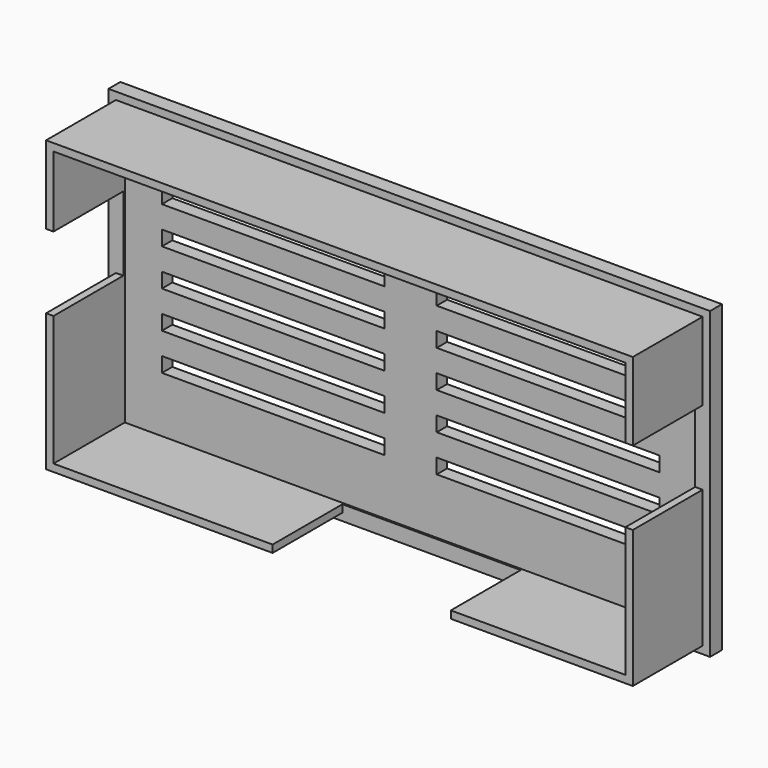
from build123d import *

# Parameters (mm, degrees)
SKETCH011_W     = 81
SKETCH011_H     = 41
PAD002_DEPTH    = 2
SKETCH012_W     = 79
SKETCH012_H     = 39
PAD003_DEPTH    = 12
SKETCH059_W     = 77
SKETCH059_H     = 37
POCKET022_DEPTH = 12
SKETCH060_W     = 30
SKETCH060_H     = 2
POCKET023_DEPTH = 2
SKETCH061_W     = 24
SKETCH061_H     = 11.75
POCKET024_DEPTH = 2
SKETCH103_W     = 10
SKETCH103_H     = 11.75
POCKET038_DEPTH = 2
SKETCH104_W     = 10
SKETCH104_H     = 11.75
POCKET039_DEPTH = 2


with BuildPart() as part:
    # Sketch011 (on DatumPlane) → Pad002 (new body)
    with BuildSketch(Plane(origin=(0, 0, 0), x_dir=(1, 0, 0), z_dir=(0, 1, 0))):
        Rectangle(SKETCH011_W, SKETCH011_H)
    extrude(amount=-PAD002_DEPTH)

    # Sketch012 → Pad003 (join)
    with BuildSketch(Plane.XZ.offset(1.75)):
        Rectangle(SKETCH012_W, SKETCH012_H)
    extrude(amount=PAD003_DEPTH)

    # Sketch059 (on Face11 of Pad003) → Pocket022 (cut)
    with BuildSketch(Plane.XZ.offset(13.75)):
        Rectangle(SKETCH059_W, SKETCH059_H)
    extrude(amount=-POCKET022_DEPTH, mode=Mode.SUBTRACT)

    # Sketch060 (on Face4 of Pocket022) → Pocket023 (cut)
    with BuildSketch(Plane(origin=(0, 0, 0), x_dir=(1, 0, 0), z_dir=(0, 1, 0))):
        with Locations((18.5, -10)):
            Rectangle(SKETCH060_W, SKETCH060_H)
        with Locations((18.5, -5)):
            Rectangle(SKETCH060_W, SKETCH060_H)
        with Locations((18.5, 0)):
            Rectangle(SKETCH060_W, SKETCH060_H)
        with Locations((18.5, 5)):
            Rectangle(SKETCH060_W, SKETCH060_H)
        with Locations((18.5, 10)):
            Rectangle(SKETCH060_W, SKETCH060_H)
        with Locations((-18.5, -10)):
            Rectangle(SKETCH060_W, SKETCH060_H)
        with Locations((-18.5, -5)):
            Rectangle(SKETCH060_W, SKETCH060_H)
        with Locations((-18.5, 0)):
            Rectangle(SKETCH060_W, SKETCH060_H)
        with Locations((-18.5, 5)):
            Rectangle(SKETCH060_W, SKETCH060_H)
        with Locations((-18.5, 10)):
            Rectangle(SKETCH060_W, SKETCH060_H)
    extrude(amount=-POCKET023_DEPTH, mode=Mode.SUBTRACT)

    # Sketch061 (on Face50 of Pocket023) → Pocket024 (cut)
    with BuildSketch(Plane(origin=(0, 0, -19.5), x_dir=(-1, 0, 0), z_dir=(0, 0, -1))):
        with Locations((-3, -7.875)):
            Rectangle(SKETCH061_W, SKETCH061_H)
    extrude(amount=-POCKET024_DEPTH, mode=Mode.SUBTRACT)

    # Sketch103 (on Face1 of Pocket024) → Pocket038 (cut)
    with BuildSketch(Plane.ZY.offset(39.5)):
        with Locations((4, -7.875)):
            Rectangle(SKETCH103_W, SKETCH103_H)
    extrude(amount=-POCKET038_DEPTH, mode=Mode.SUBTRACT)

    # Sketch104 (on Face15 of Pocket038) → Pocket039 (cut)
    with BuildSketch(Plane(origin=(39.5, 0, 0), x_dir=(0, 0, -1), z_dir=(1, 0, 0))):
        with Locations((-4, -7.875)):
            Rectangle(SKETCH104_W, SKETCH104_H)
    extrude(amount=-POCKET039_DEPTH, mode=Mode.SUBTRACT)


solid = part.part
